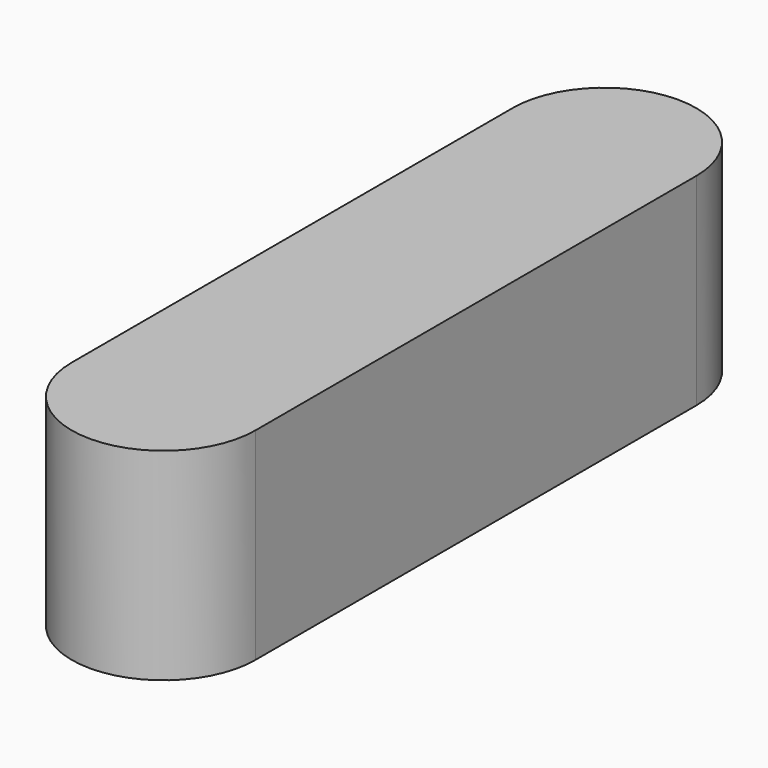
from build123d import *

# Parameters (mm, degrees)
EXTRUDE_DEPTH = 5.5


with BuildPart() as part:
    # Sketch → Extrude (new body)
    with BuildSketch(Plane.XY):
        with BuildLine():
            ThreePointArc((-2.5, 0), (0, -2.5), (2.5, 0))
            Line((2.5, 0), (2.5, 15))
            ThreePointArc((2.5, 15), (0, 17.5), (-2.5, 15))
            Line((-2.5, 15), (-2.5, 0))
        make_face()
    extrude(amount=EXTRUDE_DEPTH)


solid = part.part
